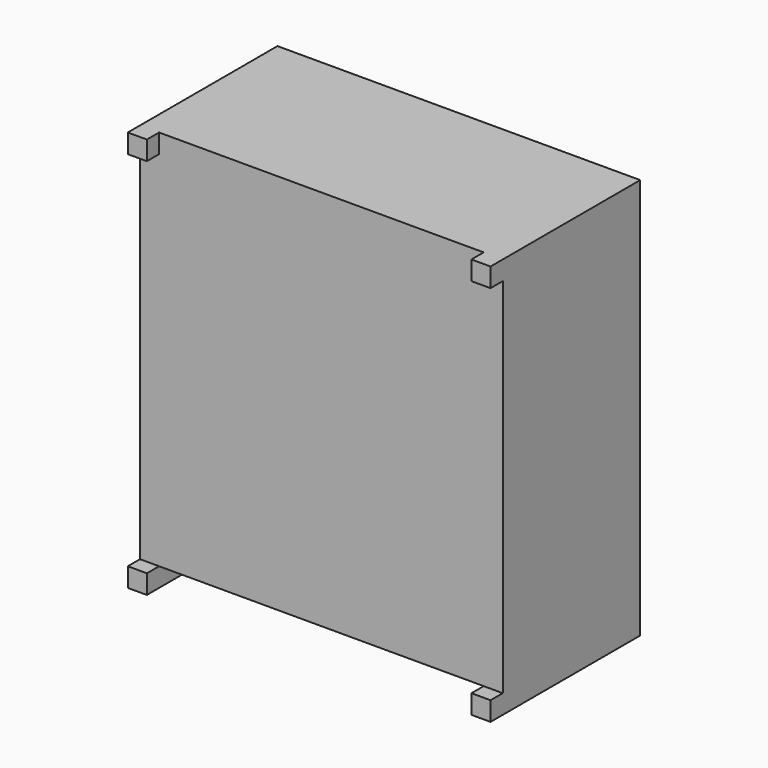
from build123d import *

# Parameters (mm, degrees)
SKETCH015_W  = 9.5
SKETCH015_H  = 4.5
PAD007_DEPTH = 10
SKETCH014_W  = 0.5
SKETCH014_H  = 0.5
PAD008_DEPTH = 0.4
SKETCH017_W  = 0.5
SKETCH017_H  = 4.9
PAD010_DEPTH = 0.5


with BuildPart() as part:
    # Sketch015 → Pad007 (new body)
    with BuildSketch(Plane.XY):
        Rectangle(SKETCH015_W, SKETCH015_H)
    extrude(amount=PAD007_DEPTH)

    # Sketch014 (on Face3 of Pad007) → Pad008 (join)
    with BuildSketch(Plane.XZ.offset(2.25)):
        with Locations((-4.5, 9.75)):
            Rectangle(SKETCH014_W, SKETCH014_H)
        with Locations((4.5, 9.75)):
            Rectangle(SKETCH014_W, SKETCH014_H)
    extrude(amount=PAD008_DEPTH)

    # Sketch017 (on Face4 of Pad008) → Pad010 (join)
    with BuildSketch(Plane(origin=(0, 0, 0), x_dir=(1, 0, 0), z_dir=(0, 0, -1))):
        with Locations((-4.5, 0.2)):
            Rectangle(SKETCH017_W, SKETCH017_H)
        with Locations((4.5, 0.2)):
            Rectangle(SKETCH017_W, SKETCH017_H)
    extrude(amount=PAD010_DEPTH)


solid = part.part
